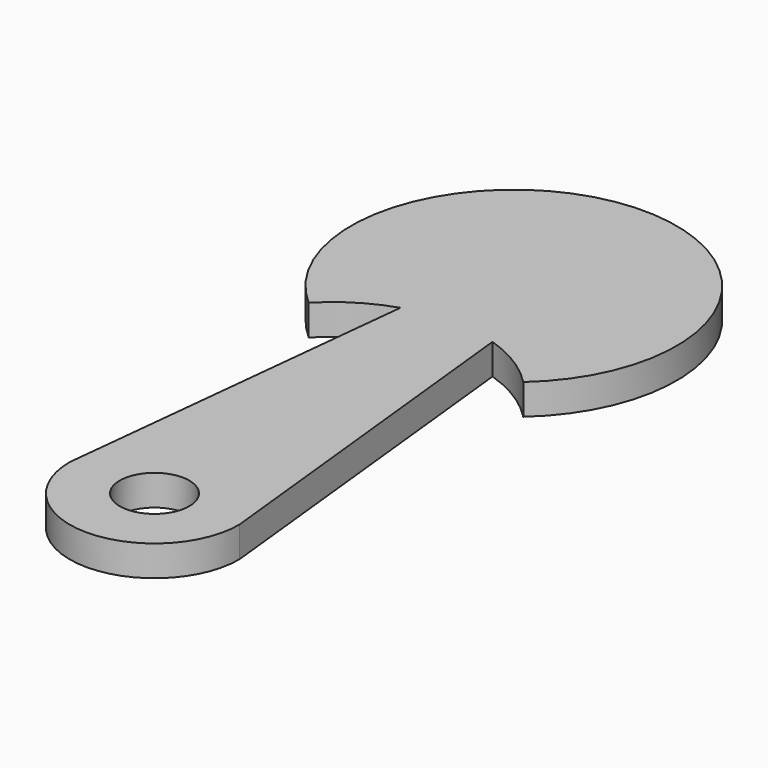
from build123d import *

# Parameters (mm, degrees)
F0_R     = 2.5
F1_DEPTH = 2.2


with BuildPart() as f1:
    # F0 (on Top) → F1 (new body)
    with BuildSketch(Plane.XY):
        with BuildLine():
            ThreePointArc((-4.404156, 2.738215), (-2.034648, 1.638403), (0, 0))
            ThreePointArc((0, 0), (-7.716083, 20.495002), (-15.432167, 0))
            ThreePointArc((-15.432167, 0), (-13.395799, 1.639472), (-11.024156, 2.739461))
            Line((-11.024156, 2.739461), (-13.803283, -23.504997))
            ThreePointArc((-13.803283, -23.504997), (-7.708283, -29.599997), (-1.613283, -23.504997))
            Line((-1.613283, -23.504997), (-4.404156, 2.738215))
        make_face()
        with Locations((-7.708283, -23.504997)):
            Circle(F0_R, mode=Mode.SUBTRACT)
    extrude(amount=F1_DEPTH)


solid = f1.part
